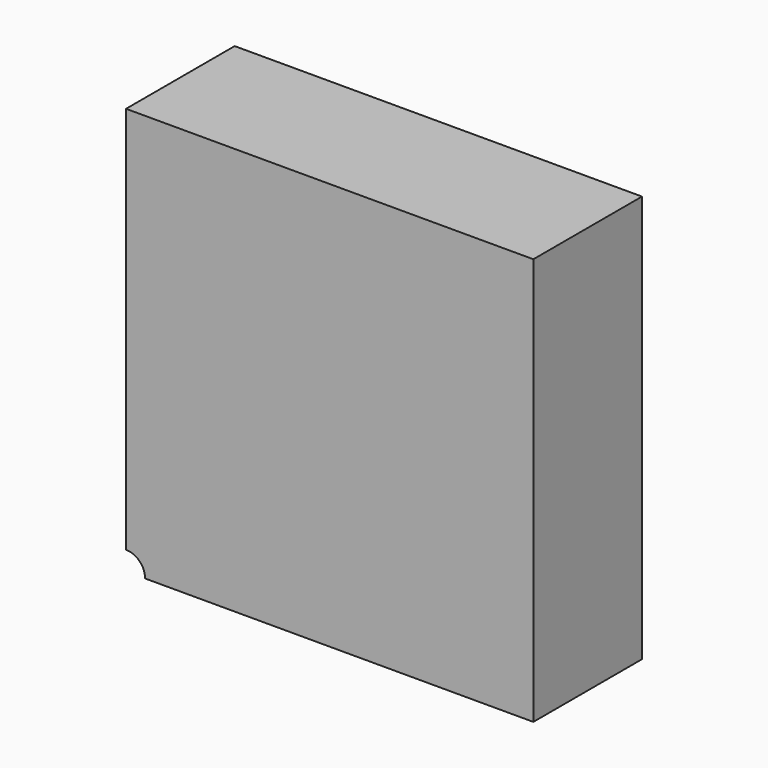
from build123d import *

# Parameters (mm, degrees)
F0_W           = 76.2
F0_H           = 76.2
F1_DEPTH       = 25.4
F2_D           = 7.1374
F2_CSINK_D     = 13.4874
F2_CSINK_ANGLE = 82


with BuildPart() as f1:
    # F0 (on Front) → F1 (new body)
    with BuildSketch(Plane.XZ):
        Rectangle(F0_W, F0_H)
    extrude(amount=F1_DEPTH)

    # F2 (through all)
    with Locations(Plane(origin=(0, 0, 0), x_dir=(1, 0, 0), z_dir=(0, 1, 0))):
        with Locations((-38.1, 38.1)):
            CounterSinkHole(F2_D / 2, F2_CSINK_D / 2, counter_sink_angle=F2_CSINK_ANGLE)


solid = f1.part
